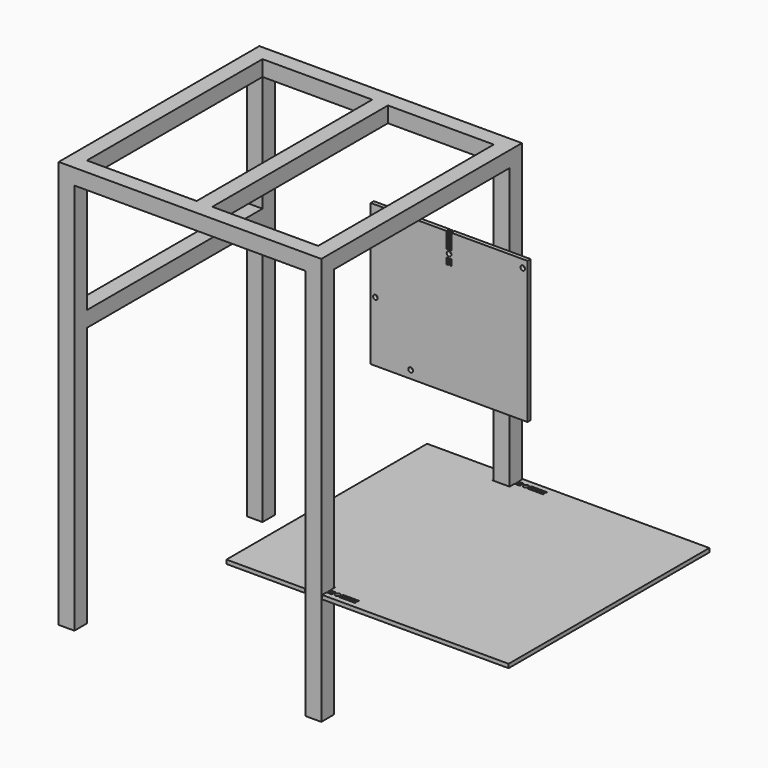
from build123d import *

# Parameters (mm, degrees)
F0_R      = 3
F0_W      = 2.1
F0_H      = 8
F1_DEPTH  = 5
F3_W      = 295
F3_H      = 20
F4_DEPTH  = 20
F5_W      = 20
F5_H      = 20
F6_DEPTH  = 500
F8_R      = 3
F8_W      = 20
F8_H      = 2.1
F9_DEPTH  = 5
F10_W     = 20
F10_H     = 20
F11_DEPTH = 280
F12_W     = 20
F12_H     = 20
F13_DEPTH = 280


with BuildPart() as f1:
    # F0 (on Front) → F1 (new body)
    with BuildSketch(Plane.XZ):
        Polygon((-51, 171), (-51, -10), (149, -10), (149, 171), (52.05, 171), (52.05, 151), (49.95, 151), (49.95, 171), (48.05, 171), (48.05, 151), (45.95, 151), (45.95, 171), align=None)
        Circle(F0_R, mode=Mode.SUBTRACT)
        with Locations((-45, 67)):
            Circle(F0_R, mode=Mode.SUBTRACT)
        with Locations((47, 137.5)):
            Rectangle(F0_W, F0_H, mode=Mode.SUBTRACT)
        with Locations((51, 137.5)):
            Rectangle(F0_W, F0_H, mode=Mode.SUBTRACT)
        with Locations((49, 146.5)):
            Circle(F0_R, mode=Mode.SUBTRACT)
        with Locations((143, 161)):
            Circle(F0_R, mode=Mode.SUBTRACT)
    extrude(amount=F1_DEPTH)

    # F3 (on offset) → F4 (join)
    with BuildSketch(Plane.XY.offset(171)):
        Polygon((-10, -160), (10, -160), (10, 160), (-10, 160), (-10, 140), (-10, -140), align=None)
        with Locations((-157.5, -150)):
            Rectangle(F3_W, F3_H)
        Polygon((-325, -160), (-305, -160), (-305, -140), (-305, 140), (-305, 160), (-325, 160), align=None)
        with Locations((-157.5, 150)):
            Rectangle(F3_W, F3_H)
    extrude(amount=F4_DEPTH)

    # F5 (on face) → F6 (join)
    with BuildSketch(Plane(origin=(0, 0, 171), x_dir=(1, 0, 0), z_dir=(0, 0, -1))):
        with Locations((-315, 150)):
            Rectangle(F5_W, F5_H)
        with Locations((-315, -150)):
            Rectangle(F5_W, F5_H)
        with Locations((0, -150)):
            Rectangle(F5_W, F5_H)
        with Locations((0, 150)):
            Rectangle(F5_W, F5_H)
    extrude(amount=F6_DEPTH)

    # F10 (on face) → F11 (join)
    with BuildSketch(Plane.XZ.offset(-140)):
        with Locations((-315, 13)):
            Rectangle(F10_W, F10_H)
    extrude(amount=F11_DEPTH)

    # F12 (on face) → F13 (join)
    with BuildSketch(Plane.XZ.offset(-140)):
        with Locations((-155, 181)):
            Rectangle(F12_W, F12_H)
    extrude(amount=F13_DEPTH)


with BuildPart() as f9:
    # F8 (on offset) → F9 (new body)
    with BuildSketch(Plane.XY.offset(-186)):
        Polygon((-11, -139), (11, -139), (11, -146.95), (18, -146.95), (18, -149.05), (11, -149.05), (11, -150.95), (18, -150.95), (18, -153.05), (11, -153.05), (11, -160), (249, -160), (249, 160), (11, 160), (11, 153.05), (18, 153.05), (18, 150.95), (11, 150.95), (11, 149.05), (18, 149.05), (18, 146.95), (11, 146.95), (11, 139), (0, 139), (-11, 139), (-11, 160), (-111, 160), (-111, -160), (-11, -160), align=None)
        with Locations((23, -150)):
            Circle(F8_R, mode=Mode.SUBTRACT)
        with Locations((37.5, -152)):
            Rectangle(F8_W, F8_H, mode=Mode.SUBTRACT)
        with Locations((37.5, -148)):
            Rectangle(F8_W, F8_H, mode=Mode.SUBTRACT)
        with Locations((23, 150)):
            Circle(F8_R, mode=Mode.SUBTRACT)
        with Locations((37.5, 148)):
            Rectangle(F8_W, F8_H, mode=Mode.SUBTRACT)
        with Locations((37.5, 152)):
            Rectangle(F8_W, F8_H, mode=Mode.SUBTRACT)
    extrude(amount=-F9_DEPTH)


solid = Compound([f1.part, f9.part])
